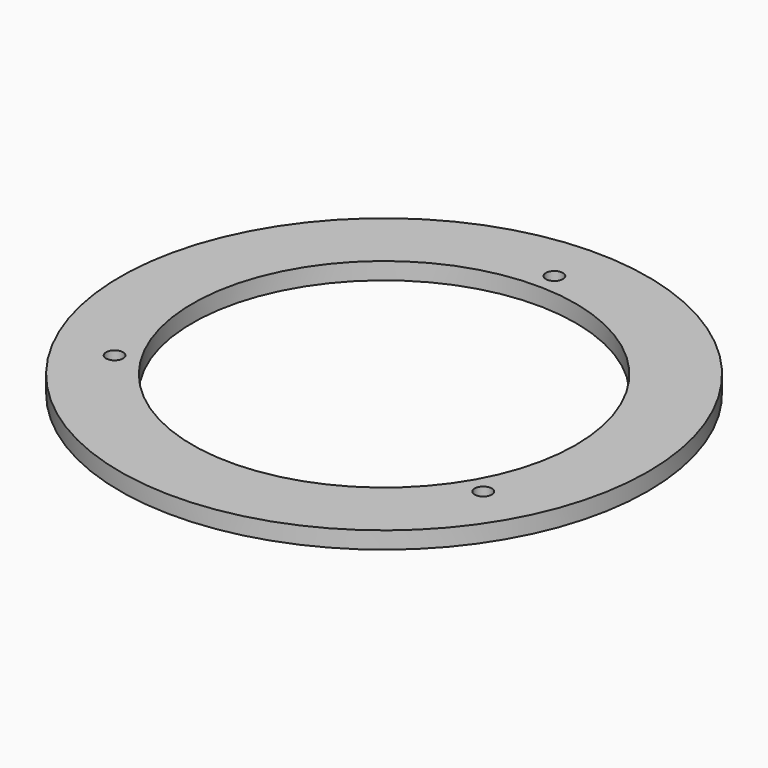
from build123d import *

# Parameters (mm, degrees)
SKETCH_R   = 31
SKETCH_R_2 = 22.5
SKETCH_R_3 = 1
PAD_DEPTH  = 2


with BuildPart() as part:
    # Sketch → Pad (new body)
    with BuildSketch(Plane.XY):
        Circle(SKETCH_R)
        Circle(SKETCH_R_2, mode=Mode.SUBTRACT)
        with Locations((0, 25)):
            Circle(SKETCH_R_3, mode=Mode.SUBTRACT)
        with Locations((-21.650635, -12.5)):
            Circle(SKETCH_R_3, mode=Mode.SUBTRACT)
        with Locations((21.650635, -12.5)):
            Circle(SKETCH_R_3, mode=Mode.SUBTRACT)
    extrude(amount=PAD_DEPTH)


solid = part.part
